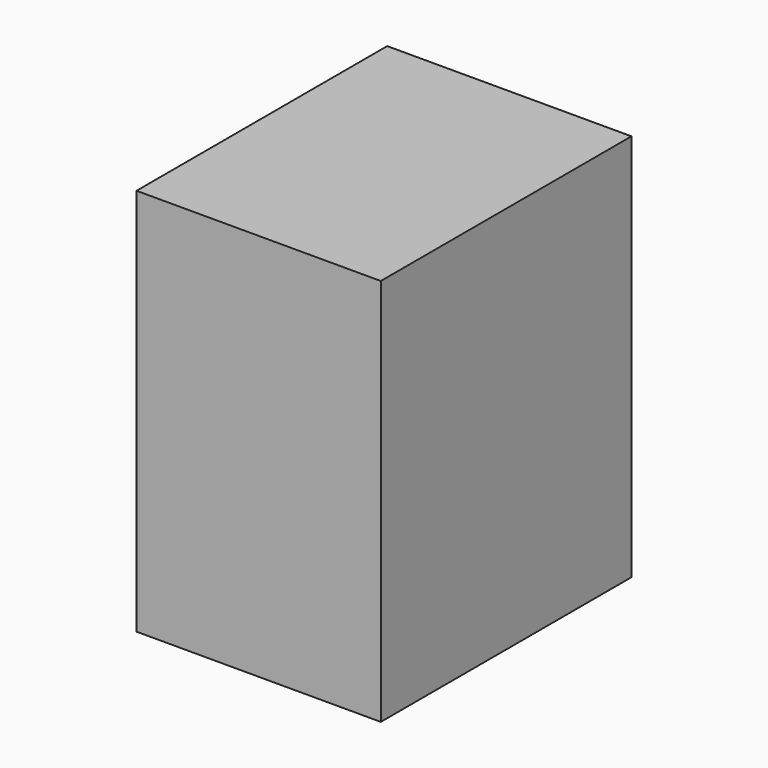
from build123d import *

# Parameters (mm, degrees)
F0_W     = 47.950342414
F0_H     = 36.107186228
F1_DEPTH = 25.4
F2_DEPTH = 25.4
F4_DEPTH = 50.8


with BuildPart() as f1:
    # F0 (on Top) → F1 (new body)
    with BuildSketch(Plane.XY):
        with Locations((-24.7308834805, 32.7199045569)):
            Rectangle(F0_W, F0_H)
    extrude(amount=-F1_DEPTH)

    # F2 (add): a face of the model
    f2_faces = [f1.faces().sort_by_distance(p)[0] for p in [
        (-24.7308834805, 14.6663114429, -12.7),
    ]]
    extrude(f2_faces, amount=F2_DEPTH)

    # F4 (add): a face of the model
    f4_faces = [f1.faces().sort_by_distance(p)[0] for p in [
        (-24.7308834805, 20.0199045569, 0),
    ]]
    extrude(f4_faces, amount=F4_DEPTH)


solid = f1.part
